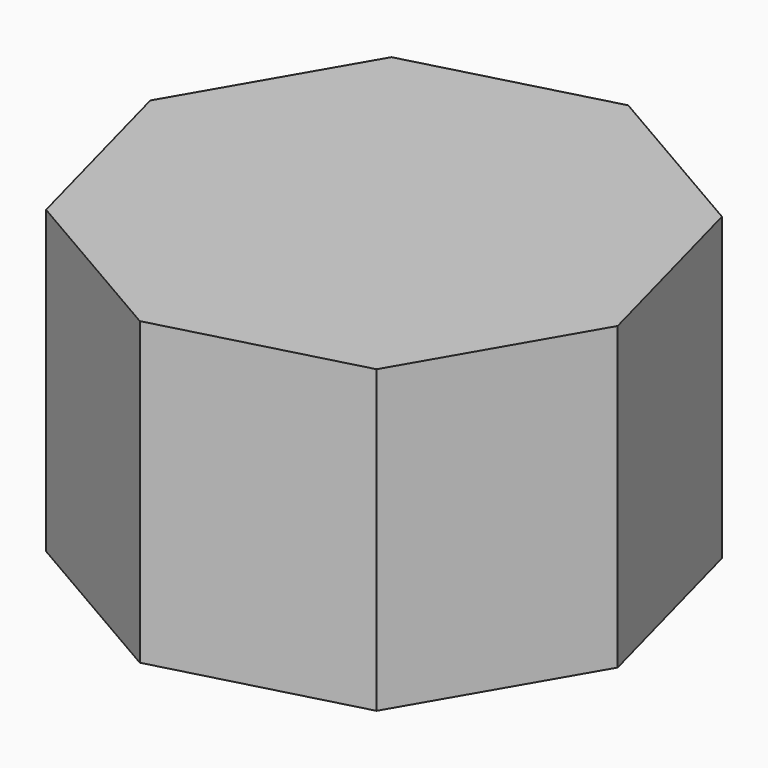
from build123d import *

# Parameters (mm, degrees)
F1_DEPTH = 37.338


with BuildPart() as f1:
    # F0 (on Top) → F1 (new body, symmetric)
    with BuildSketch(Plane.XY):
        Polygon((-92.113654, 3.088809), (-48.716967, -22.06869), (-0.241838, -9.171637), (24.915661, 34.225049), (12.018608, 82.700178), (-31.378078, 107.857678), (-79.853207, 94.960625), (-105.010707, 51.563939), align=None)
    extrude(amount=F1_DEPTH, both=True)


solid = f1.part
